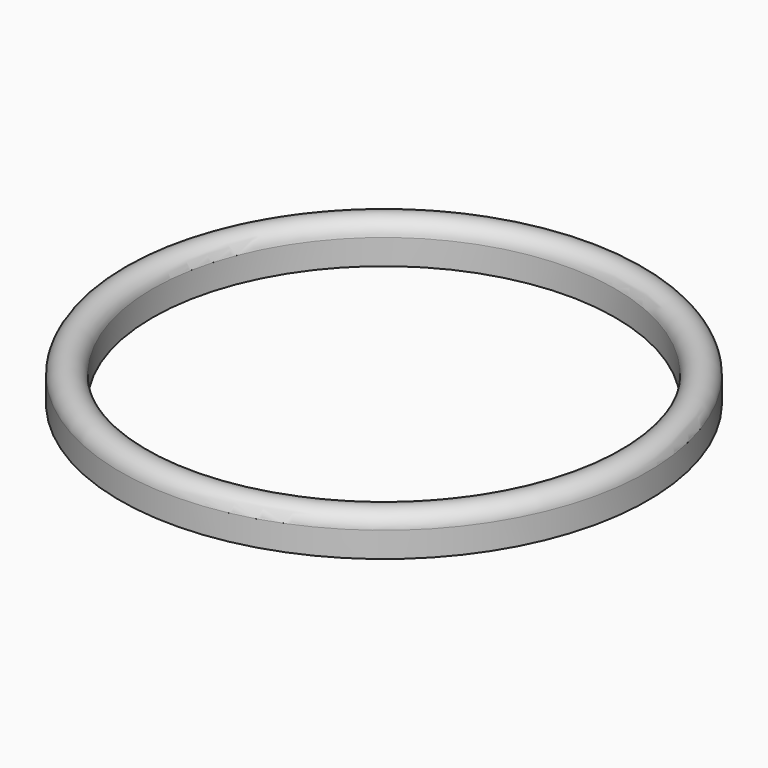
from build123d import *

# Parameters (mm, degrees)
F0_W = 2.25
F0_H = 1.75


with BuildPart() as f1:
    # F0 (on Front) → F1 (revolve)
    with BuildSketch(Plane.XZ):
        with Locations((-17.125, 0.875)):
            Rectangle(F0_W, F0_H)
        with BuildLine():
            ThreePointArc((-16, 1.75), (-17.125, 2.75), (-18.25, 1.75))
            Line((-18.25, 1.75), (-16, 1.75))
        make_face()
    revolve(axis=Axis((0, 0, -2.02128), (0, 0, -1)))


solid = f1.part
